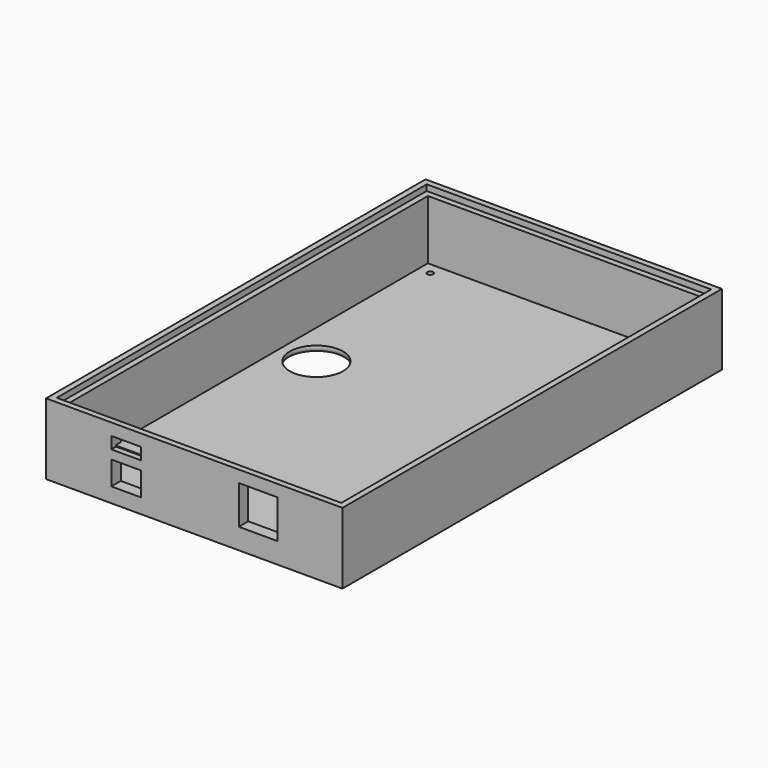
from build123d import *

# Parameters (mm, degrees)
SKETCH_W        = 100
SKETCH_H        = 160
PAD_DEPTH       = 24
SKETCH001_W     = 96
SKETCH001_H     = 156
POCKET_DEPTH    = 2
SKETCH002_W     = 92
SKETCH002_H     = 152
POCKET001_DEPTH = 22
SKETCH003_R     = 1
POCKET002_DEPTH = 24.001
SKETCH004_W     = 13
SKETCH004_H     = 13
SKETCH004_W_2   = 10
SKETCH004_H_2   = 4
SKETCH004_H_3   = 8
POCKET003_DEPTH = 10
SKETCH005_W     = 18
SKETCH005_H     = 1.5
POCKET004_DEPTH = 2
SKETCH007_R     = 9
POCKET005_DEPTH = 5
FILLET_R        = 1


with BuildPart() as part:
    # Sketch → Pad (new body)
    with BuildSketch(Plane.XY):
        Rectangle(SKETCH_W, SKETCH_H)
    extrude(amount=PAD_DEPTH)

    # Sketch001 → Pocket (cut)
    with BuildSketch(Plane.XY.offset(24)):
        Rectangle(SKETCH001_W, SKETCH001_H)
    extrude(amount=-POCKET_DEPTH, mode=Mode.SUBTRACT)

    # Sketch002 → Pocket001 (cut)
    with BuildSketch(Plane.XY.offset(24)):
        Rectangle(SKETCH002_W, SKETCH002_H)
    extrude(amount=-POCKET001_DEPTH, mode=Mode.SUBTRACT)

    # Sketch003 → Pocket002 (cut, through all)
    with BuildSketch(Plane.XY):
        with Locations((42, 72)):
            Circle(SKETCH003_R)
        with Locations((-42, 72)):
            Circle(SKETCH003_R)
        with Locations((42, -72)):
            Circle(SKETCH003_R)
        with Locations((-42, -72)):
            Circle(SKETCH003_R)
    extrude(amount=POCKET002_DEPTH, mode=Mode.SUBTRACT)

    # Sketch004 → Pocket003 (cut)
    with BuildSketch(Plane.XZ.offset(80)):
        with Locations((21.5, 13.5)):
            Rectangle(SKETCH004_W, SKETCH004_H)
        with Locations((-23, 18)):
            Rectangle(SKETCH004_W_2, SKETCH004_H_2)
        with Locations((-23, 9)):
            Rectangle(SKETCH004_W_2, SKETCH004_H_3)
    extrude(amount=-POCKET003_DEPTH, mode=Mode.SUBTRACT)

    # Sketch005 → Pocket004 (cut)
    with BuildSketch(Plane.XZ.offset(76)):
        with Locations((-23, 15.75)):
            Rectangle(SKETCH005_W, SKETCH005_H)
    extrude(amount=POCKET004_DEPTH, mode=Mode.SUBTRACT)

    # Sketch007 → Pocket005 (cut)
    with BuildSketch(Plane.XY):
        with Locations((34, 14)):
            Circle(SKETCH007_R)
        with Locations((-34, 14)):
            Circle(SKETCH007_R)
    extrude(amount=POCKET005_DEPTH, mode=Mode.SUBTRACT)

    # Fillet
    fillet_edges = [part.edges().sort_by_distance(p)[0] for p in [
        (-43, 14, 0),
    ]]
    fillet(fillet_edges, radius=FILLET_R)


solid = part.part
